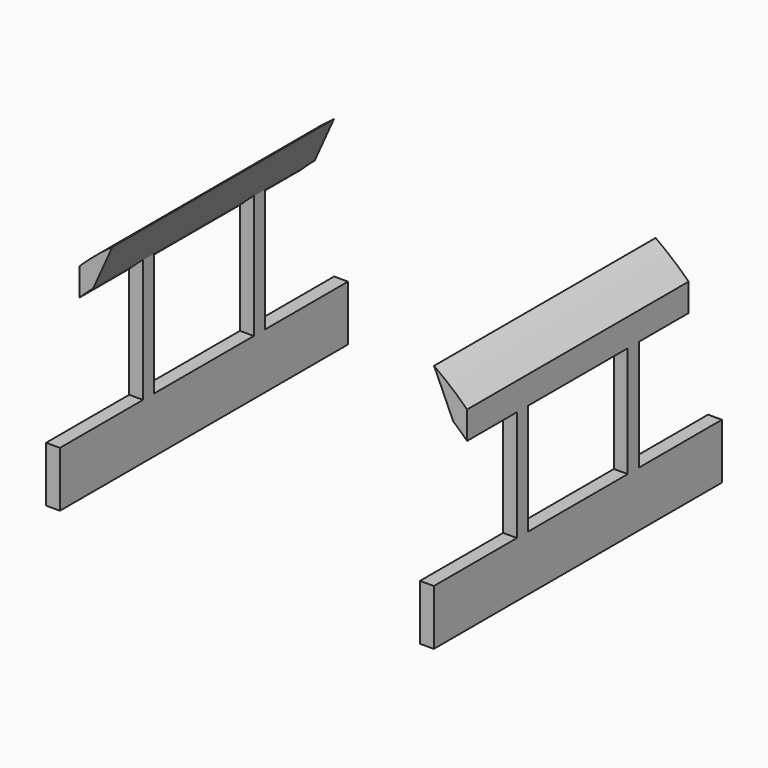
from build123d import *

# Parameters (mm, degrees)
F1_DEPTH = 50
F2_W     = 2.5
F2_H     = 5
F3_DEPTH = 2.5
F4_W     = 2.5
F4_H     = 5
F5_DEPTH = 2.5
F7_DEPTH = 50


with BuildPart() as f1:
    # F0 (on Front) → F1 (new body)
    with BuildSketch(Plane.XZ):
        with BuildLine():
            Line((70, -5), (70, 0))
            ThreePointArc((70, 0), (35, 14.2928578573), (0, 0))
            Line((0, 0), (0, -5))
            ThreePointArc((0, -5), (35, 9.2928578573), (70, -5))
        make_face()
    extrude(amount=F1_DEPTH)

    # F2 (on face) → F3 (join)
    with BuildSketch(Plane.YZ.offset(70)):
        with BuildLine():
            Line((-38.75, -2.5), (-38.75, -5))
            Line((-38.75, -5), (-38.75, -25))
            Line((-38.75, -25), (-36.25, -25))
            Line((-36.25, -25), (-36.25, -5))
            Line((-36.25, -5), (-36.25, -2.5))
            ThreePointArc((-36.25, -2.5), (-37.5, -3.75), (-38.75, -2.5))
        make_face()
        with Locations((-37.5, -27.5)):
            Rectangle(F2_W, F2_H)
        Polygon((-38.75, -30), (-38.75, -25), (-57.5, -25), (-57.5, -30), (-57.5, -35), (7.5, -35), (7.5, -30), (7.5, -25), (-11.25, -25), (-11.25, -30), (-13.75, -30), (-13.75, -25), (-36.25, -25), (-36.25, -30), align=None)
        with BuildLine():
            ThreePointArc((-36.25, -2.5), (-37.5, -1.25), (-38.75, -2.5))
            Line((-38.75, -2.5), (-36.25, -2.5))
        make_face()
        with BuildLine():
            Line((-36.25, -2.5), (-38.75, -2.5))
            ThreePointArc((-38.75, -2.5), (-37.5, -3.75), (-36.25, -2.5))
        make_face()
        with Locations((-12.5, -27.5)):
            Rectangle(F2_W, F2_H)
        with BuildLine():
            Line((-13.75, -5), (-13.75, -25))
            Line((-13.75, -25), (-11.25, -25))
            Line((-11.25, -25), (-11.25, -5))
            Line((-11.25, -5), (-11.25, -2.5))
            ThreePointArc((-11.25, -2.5), (-12.5, -3.75), (-13.75, -2.5))
            Line((-13.75, -2.5), (-13.75, -5))
        make_face()
        with BuildLine():
            ThreePointArc((-11.25, -2.5), (-12.5, -1.25), (-13.75, -2.5))
            Line((-13.75, -2.5), (-11.25, -2.5))
        make_face()
        with BuildLine():
            Line((-11.25, -2.5), (-13.75, -2.5))
            ThreePointArc((-13.75, -2.5), (-12.5, -3.75), (-11.25, -2.5))
        make_face()
    extrude(amount=-F3_DEPTH)

    # F4 (on face) → F5 (join)
    with BuildSketch(Plane(origin=(0, 0, 0), x_dir=(0, -1, 0), z_dir=(-1, 0, 0))):
        with BuildLine():
            Line((11.25, -2.5), (11.25, -5))
            Line((11.25, -5), (11.25, -25))
            Line((11.25, -25), (13.75, -25))
            Line((13.75, -25), (13.75, -5))
            Line((13.75, -5), (13.75, -2.5))
            ThreePointArc((13.75, -2.5), (12.5, -3.75), (11.25, -2.5))
        make_face()
        with Locations((12.5, -27.5)):
            Rectangle(F4_W, F4_H)
        Polygon((11.25, -30), (11.25, -25), (-7.5, -25), (-7.5, -30), (-7.5, -35), (57.5, -35), (57.5, -30), (57.5, -25), (38.75, -25), (38.75, -30), (36.25, -30), (36.25, -25), (13.75, -25), (13.75, -30), align=None)
        with BuildLine():
            ThreePointArc((13.75, -2.5), (12.5, -1.25), (11.25, -2.5))
            Line((11.25, -2.5), (13.75, -2.5))
        make_face()
        with BuildLine():
            Line((13.75, -2.5), (11.25, -2.5))
            ThreePointArc((11.25, -2.5), (12.5, -3.75), (13.75, -2.5))
        make_face()
        with Locations((37.5, -27.5)):
            Rectangle(F4_W, F4_H)
        with BuildLine():
            Line((36.25, -5), (36.25, -25))
            Line((36.25, -25), (38.75, -25))
            Line((38.75, -25), (38.75, -2.5))
            ThreePointArc((38.75, -2.5), (37.5, -3.75), (36.25, -2.5))
            Line((36.25, -2.5), (36.25, -5))
        make_face()
        with BuildLine():
            ThreePointArc((38.75, -2.5), (37.5, -1.25), (36.25, -2.5))
            Line((36.25, -2.5), (38.75, -2.5))
        make_face()
        with BuildLine():
            Line((38.75, -2.5), (36.25, -2.5))
            ThreePointArc((36.25, -2.5), (37.5, -3.75), (38.75, -2.5))
        make_face()
    extrude(amount=-F5_DEPTH)

    # F6 (on face) → F7 (cut)
    with BuildSketch(Plane.XZ.offset(50)):
        with BuildLine():
            Line((5.9667676864, 5), (2.5, -2.7104317588))
            ThreePointArc((2.5, -2.7104317588), (35, 9.2928578573), (67.5, -2.7104317588))
            Line((67.5, -2.7104317588), (64.0332323136, 5))
            ThreePointArc((64.0332323136, 5), (35, 14.2928578573), (5.9667676864, 5))
        make_face()
    extrude(amount=-F7_DEPTH, mode=Mode.SUBTRACT)


solid = f1.part
